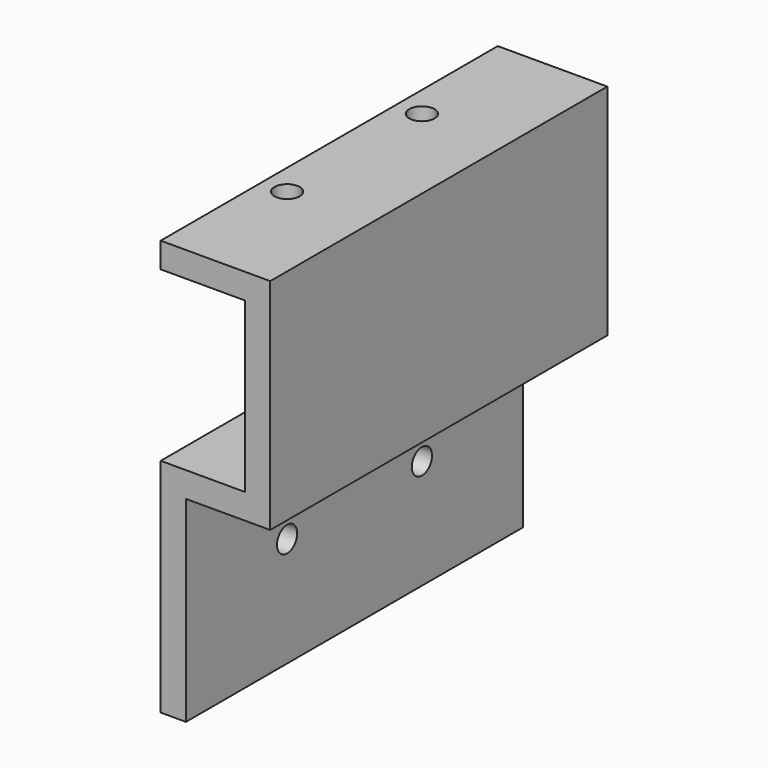
from build123d import *

# Parameters (mm, degrees)
F1_DEPTH = 50
F2_R     = 1.5
F3_DEPTH = 10
F4_R     = 1.5
F5_DEPTH = 25


with BuildPart() as f1:
    # F0 (on Front) → F1 (new body)
    with BuildSketch(Plane.XZ):
        Polygon((-9.26335, 42.398173), (-9.26335, 39.398173), (0.73665, 39.398173), (0.73665, 19.398173), (-9.26335, 19.398173), (-9.26335, -6.901827), (-6.26335, -6.901827), (-6.26335, 16.398173), (3.73665, 16.398173), (3.73665, 42.398173), align=None)
    extrude(amount=F1_DEPTH)

    # F2 (on face) → F3 (cut)
    with BuildSketch(Plane.XY.offset(42.398173)):
        with Locations((-6.26335, -35)):
            Circle(F2_R)
        with Locations((-6.26335, -15)):
            Circle(F2_R)
    extrude(amount=-F3_DEPTH, mode=Mode.SUBTRACT)

    # F4 (on face) → F5 (cut)
    with BuildSketch(Plane.YZ.offset(-6.26335)):
        with Locations((-35, 6.098173)):
            Circle(F4_R)
        with Locations((-15, 6.098173)):
            Circle(F4_R)
    extrude(amount=-F5_DEPTH, mode=Mode.SUBTRACT)


solid = f1.part
